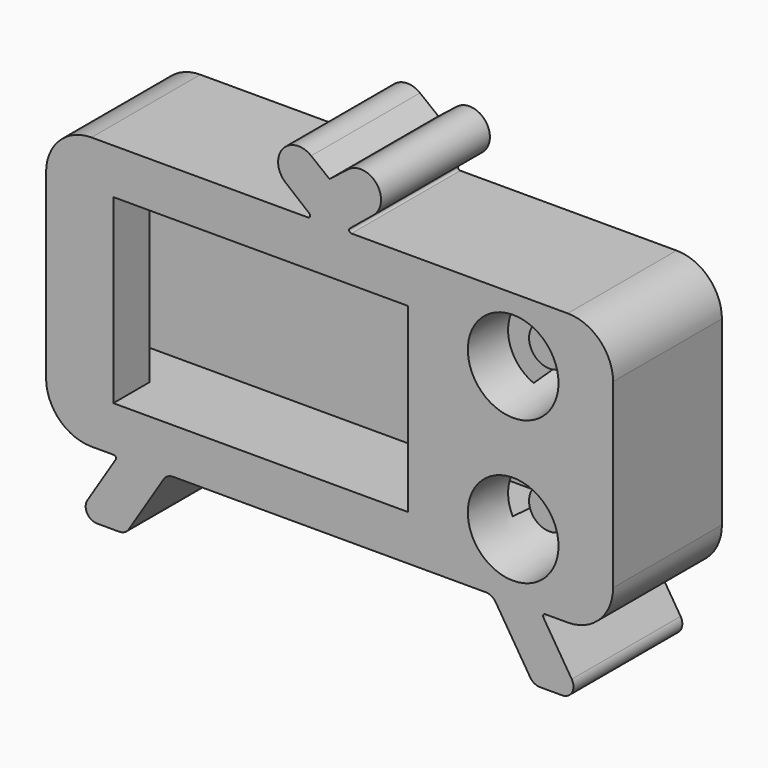
from build123d import *

# Parameters (mm, degrees)
F3_DEPTH  = 30
F4_W      = 20
F4_H      = 80
F5_DEPTH  = 199
F6_R      = 20
F7_DEPTH  = 40
F7_TAPER  = 5
F0_W      = 130
F0_H      = 80
F8_DEPTH  = 43
F9_R      = 9
F10_DEPTH = 20


with BuildPart() as f3:
    # F2 (on Front) → F3 (new body, symmetric)
    with BuildSketch(Plane.XZ):
        with BuildLine():
            ThreePointArc((-94.639390707, -40), (-88.7815263307, -54.1421356237), (-74.639390707, -60))
            Line((-74.639390707, -60), (-64.7730480564, -60))
            ThreePointArc((-64.7730480564, -60), (-63.8977460335, -60.5164233581), (-63.9264968306, -61.5323072629))
            Line((-63.9264968306, -61.5323072629), (-76.4204092514, -81.4019156883))
            ThreePointArc((-76.4204092514, -81.4019156883), (-76.5641632373, -86.481335212), (-72.1876531224, -89.0634520026))
            Line((-72.1876531224, -89.0634520026), (-62.3831424536, -89.0634520026))
            ThreePointArc((-62.3831424536, -89.0634520026), (-59.9652592442, -88.4399621175), (-58.1503863246, -86.7249883169))
            Line((-58.1503863246, -86.7249883169), (-42.8162591257, -62.3384636857))
            ThreePointArc((-42.8162591257, -62.3384636857), (-41.0013862061, -60.6234898851), (-38.5835029967, -60))
            Line((-38.5835029967, -60), (99.3047215826, -60))
            ThreePointArc((99.3047215826, -60), (101.7226047921, -60.6234898851), (103.5374777117, -62.3384636857))
            Line((103.5374777117, -62.3384636857), (118.8716049106, -86.7249883169))
            ThreePointArc((118.8716049106, -86.7249883169), (120.6864778302, -88.4399621175), (123.1043610396, -89.0634520026))
            Line((123.1043610396, -89.0634520026), (132.9088717083, -89.0634520026))
            ThreePointArc((132.9088717083, -89.0634520026), (137.2853818232, -86.481335212), (137.1416278374, -81.4019156883))
            Line((137.1416278374, -81.4019156883), (124.6477154166, -61.5323072629))
            ThreePointArc((124.6477154166, -61.5323072629), (124.6189646194, -60.5164233581), (125.4942666424, -60))
            Line((125.4942666424, -60), (135.360609293, -60))
            ThreePointArc((135.360609293, -60), (149.5027449167, -54.1421356237), (155.360609293, -40))
            Line((155.360609293, -40), (155.360609293, 40))
            ThreePointArc((155.360609293, 40), (149.5027449167, 54.1421356237), (135.360609293, 60))
            Line((135.360609293, 60), (39.9569445726, 60))
            ThreePointArc((39.9569445726, 60), (39.0153160887, 60.6633461743), (39.3229389096, 61.7733284033))
            Line((39.3229389096, 61.7733284033), (49.6255289763, 70.2198052406))
            ThreePointArc((49.6255289763, 70.2198052406), (51.1272936037, 82.8727111049), (38.4743877395, 84.3744757323))
            Line((38.4743877395, 84.3744757323), (30.360609293, 77.9823884368))
            Line((30.360609293, 77.9823884368), (22.2468308465, 84.3744757323))
            ThreePointArc((22.2468308465, 84.3744757323), (9.5939249823, 82.8727111049), (11.0956896096, 70.2198052406))
            Line((11.0956896096, 70.2198052406), (21.3982796764, 61.7733284033))
            ThreePointArc((21.3982796764, 61.7733284033), (21.7059024972, 60.6633461743), (20.7642740134, 60))
            Line((20.7642740134, 60), (-74.639390707, 60))
            ThreePointArc((-74.639390707, 60), (-88.7815263307, 54.1421356237), (-94.639390707, 40))
            Line((-94.639390707, 40), (-94.639390707, -40))
        make_face()
    extrude(amount=F3_DEPTH, both=True)

    # F4 (on face) → F5 (cut)
    with BuildSketch(Plane(origin=(-94.639390707, 0, 0), x_dir=(0, -1, 0), z_dir=(-1, 0, 0))):
        Rectangle(F4_W, F4_H)
    extrude(amount=-F5_DEPTH, mode=Mode.SUBTRACT)

    # F6 (on face) → F7 (cut)
    with BuildSketch(Plane.XZ.offset(30)):
        with Locations((111.3148257136, 31.6125191748)):
            Circle(F6_R)
        with Locations((111.3148257136, -31.6125191748)):
            Circle(F6_R)
    extrude(amount=-F7_DEPTH, taper=F7_TAPER, mode=Mode.SUBTRACT)

    # F0 (on Front) → F8 (cut)
    with BuildSketch(Plane.XZ):
        Rectangle(F0_W, F0_H)
    extrude(amount=F8_DEPTH, mode=Mode.SUBTRACT)

    # F9 (on face) → F10 (join)
    with BuildSketch(Plane.XZ.offset(-10)):
        with Locations((111.3148257136, 31.6125191748)):
            Circle(F9_R)
        with Locations((111.3148257136, -31.6125191748)):
            Circle(F9_R)
    extrude(amount=F10_DEPTH)


solid = f3.part
